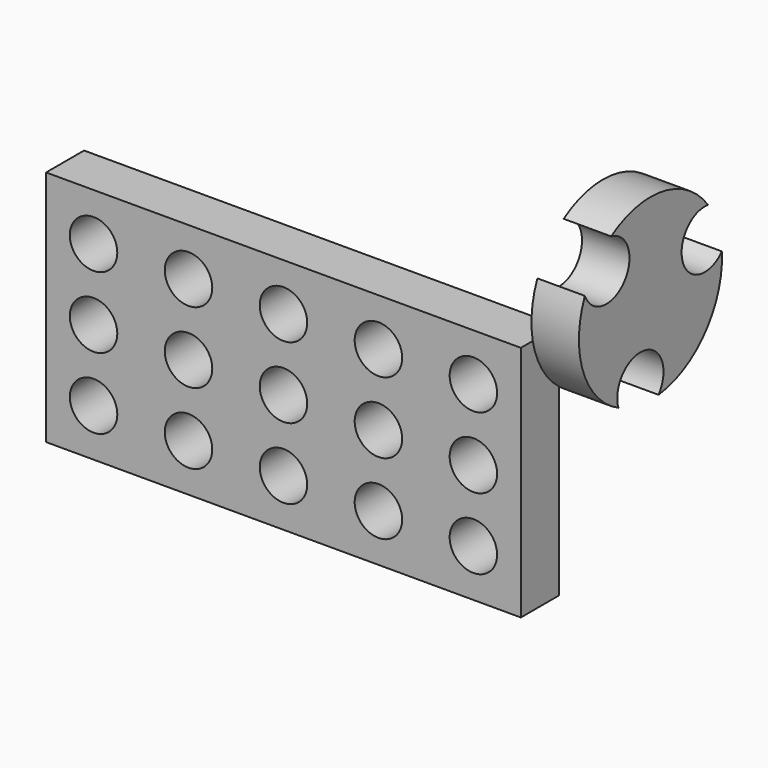
from build123d import *

# Parameters (mm, degrees)
F0_W     = 254
F0_H     = 127
F0_R     = 12.7
F1_DEPTH = 25.4
F3_DEPTH = 25.4


with BuildPart() as f1:
    # F0 (on Front) → F1 (new body)
    with BuildSketch(Plane.XZ):
        with Locations((-127, -63.5)):
            Rectangle(F0_W, F0_H)
        with Locations((-228.6, -101.6)):
            Circle(F0_R, mode=Mode.SUBTRACT)
        with Locations((-177.8, -101.6)):
            Circle(F0_R, mode=Mode.SUBTRACT)
        with Locations((-127, -101.6)):
            Circle(F0_R, mode=Mode.SUBTRACT)
        with Locations((-76.2, -101.6)):
            Circle(F0_R, mode=Mode.SUBTRACT)
        with Locations((-25.4, -101.6)):
            Circle(F0_R, mode=Mode.SUBTRACT)
        with Locations((-228.6, -63.5)):
            Circle(F0_R, mode=Mode.SUBTRACT)
        with Locations((-177.8, -63.5)):
            Circle(F0_R, mode=Mode.SUBTRACT)
        with Locations((-228.6, -25.4)):
            Circle(F0_R, mode=Mode.SUBTRACT)
        with Locations((-177.8, -25.4)):
            Circle(F0_R, mode=Mode.SUBTRACT)
        with Locations((-127, -63.5)):
            Circle(F0_R, mode=Mode.SUBTRACT)
        with Locations((-76.2, -63.5)):
            Circle(F0_R, mode=Mode.SUBTRACT)
        with Locations((-25.4, -63.5)):
            Circle(F0_R, mode=Mode.SUBTRACT)
        with Locations((-127, -25.4)):
            Circle(F0_R, mode=Mode.SUBTRACT)
        with Locations((-76.2, -25.4)):
            Circle(F0_R, mode=Mode.SUBTRACT)
        with Locations((-25.4, -25.4)):
            Circle(F0_R, mode=Mode.SUBTRACT)
    extrude(amount=F1_DEPTH)

    # F2 (on Right) → F3 (join)
    with BuildSketch(Plane.YZ):
        with BuildLine():
            ThreePointArc((3.218499, 49.117664), (11.833529, 24.029421), (-14.357061, 28.235564))
            ThreePointArc((-14.357061, 28.235564), (-15.469696, -7.155973), (8.052648, -33.622899))
            ThreePointArc((8.052648, -33.622899), (25.472188, -13.617942), (34.924857, -38.40273))
            ThreePointArc((34.924857, -38.40273), (66.131145, -21.670532), (77.291002, 11.933878))
            ThreePointArc((77.291002, 11.933878), (51.256432, 17.017165), (67.994353, 37.59581))
            ThreePointArc((67.994353, 37.59581), (37.900701, 56.255149), (3.218499, 49.117664))
        make_face()
    extrude(amount=F3_DEPTH)


solid = f1.part
